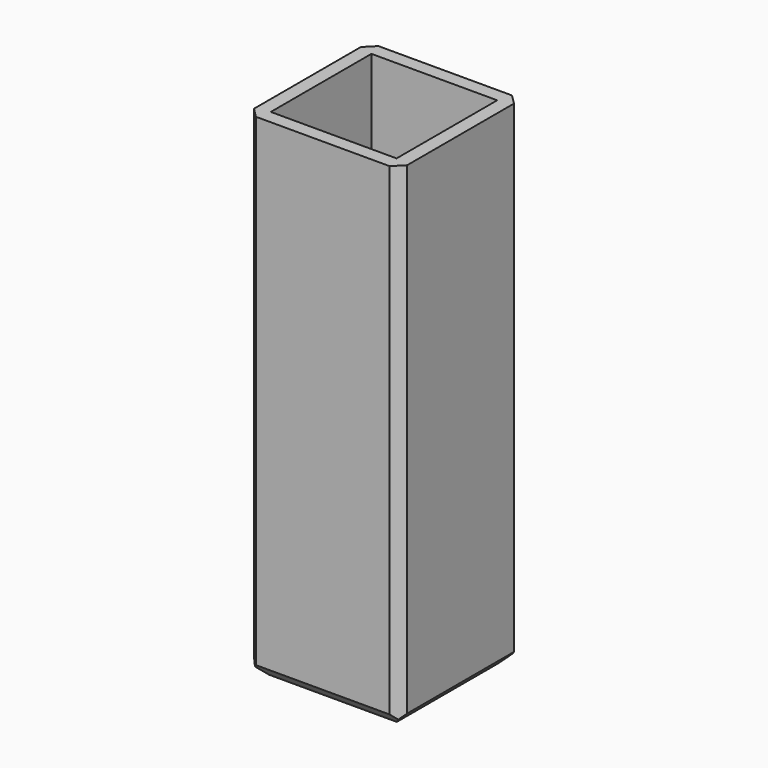
from build123d import *

# Parameters (mm, degrees)
F0_W          = 31.4
F0_H          = 31.4
F0_W_2        = 25.8
F0_H_2        = 25.8
F1_DEPTH      = 50.8
F1_DEPTH_BACK = 50.8
F2_W          = 28
F2_H          = 28
F3_DEPTH      = 3
F3_DEPTH_BACK = 3
F4_SIZE       = 12
F5_SIZE       = 2
F6_SIZE       = 2.6


with BuildPart() as f1:
    # F0 (on Top) → F1 (new body, two sides)
    with BuildSketch(Plane.XY) as f1_sk:
        Rectangle(F0_W, F0_H)
        Rectangle(F0_W_2, F0_H_2, mode=Mode.SUBTRACT)
    extrude(amount=F1_DEPTH)
    extrude(f1_sk.sketch, amount=-F1_DEPTH_BACK)

    # F2 (on Top) → F3 (join, two sides)
    with BuildSketch(Plane.XY) as f3_sk:
        Rectangle(F2_W, F2_H)
    extrude(amount=F3_DEPTH)
    extrude(f3_sk.sketch, amount=-F3_DEPTH_BACK)

    # F4
    f4_edges = [f1.edges().sort_by_distance(p)[0] for p in [
        (0, 12.9, 3),
        (12.9, 0, 3),
        (0, -12.9, 3),
        (-12.9, 0, 3),
    ]]
    chamfer(f4_edges, length=F4_SIZE)

    # F5
    f5_edges = [f1.edges().sort_by_distance(p)[0] for p in [
        (15.7, -15.7, 0),
        (-15.7, -15.7, 0),
        (15.7, 15.7, 0),
        (-15.7, 15.7, 0),
    ]]
    chamfer(f5_edges, length=F5_SIZE)

    # F6 (call 1 of 4: OpenCascade refuses the feature's edges together)
    f6_edges = [f1.edges().sort_by_distance(p)[0] for p in [
        (15.7, 0, -50.8),
    ]]
    chamfer(f6_edges, length=F6_SIZE)

    # F6#2 (call 2 of 4)
    f6_2_edges = [f1.edges().sort_by_distance(p)[0] for p in [
        (0, -15.7, -50.8),
    ]]
    chamfer(f6_2_edges, length=F6_SIZE)

    # F6#3 (call 3 of 4)
    f6_3_edges = [f1.edges().sort_by_distance(p)[0] for p in [
        (-15.7, 0, -50.8),
    ]]
    chamfer(f6_3_edges, length=F6_SIZE)

    # F6#4 (call 4 of 4)
    f6_4_edges = [f1.edges().sort_by_distance(p)[0] for p in [
        (0, 15.7, -50.8),
    ]]
    chamfer(f6_4_edges, length=F6_SIZE)


solid = f1.part
